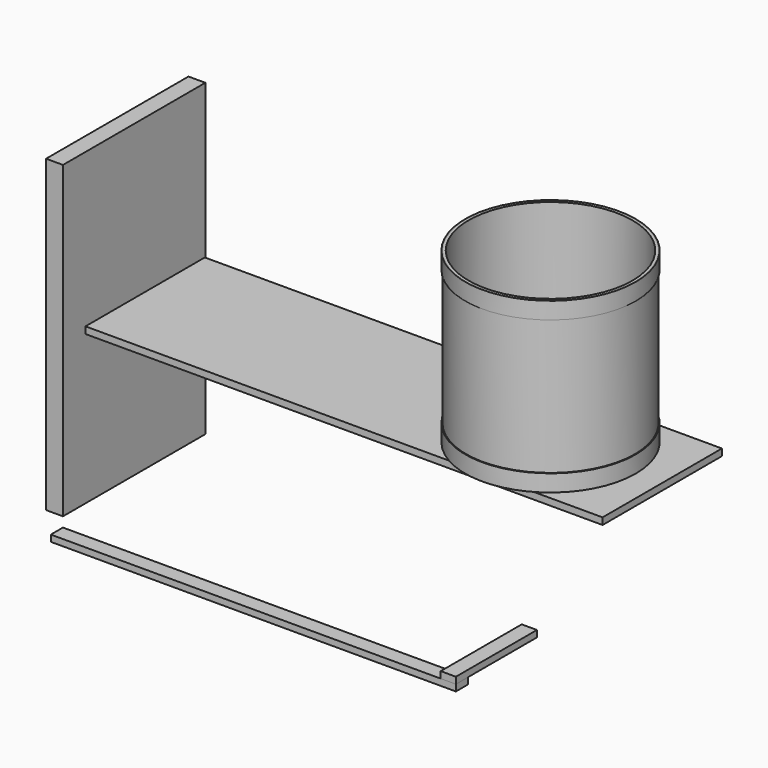
from build123d import *

# Parameters (mm, degrees)
F1_R      = 500
F1_R_2    = 485
F3_DEPTH  = 1000
F4_R      = 504.9999952316
F4_R_2    = 500
F5_DEPTH  = 100
F6_R      = 504.9999952316
F6_R_2    = 500
F7_DEPTH  = 100
F10_DEPTH = 20
F11_W     = 3063.6771917343
F11_H     = 883.8261663914
F12_DEPTH = 40
F13_W     = 1054.4956624508
F13_H     = 1832.8925967216
F13_W_2   = 883.8261663914
F13_H_2   = 40
F14_DEPTH = 100
F15_W     = 2400
F15_H     = 38
F16_DEPTH = 90
F17_W     = 90
F17_H     = 39
F18_DEPTH = 600


with BuildPart() as f3:
    # F1 (on face) → F3 (new body)
    with BuildSketch(Plane.XY):
        Circle(F1_R)
        Circle(F1_R_2, mode=Mode.SUBTRACT)
    extrude(amount=F3_DEPTH)


with BuildPart() as f5:
    # F4 (on face) → F5 (new body)
    with BuildSketch(Plane.XY.offset(1000)):
        Circle(F4_R)
        Circle(F4_R_2, mode=Mode.SUBTRACT)
    extrude(amount=-F5_DEPTH)


with BuildPart() as f7:
    # F6 (on face) → F7 (new body)
    with BuildSketch(Plane.XY):
        Circle(F6_R)
        Circle(F6_R_2, mode=Mode.SUBTRACT)
    extrude(amount=F7_DEPTH)


with BuildPart() as f10:
    # F9 (on face) → F10 (new body)
    with BuildSketch(Plane.XY):
        with BuildLine():
            Line((-365.7646179199, 279.0051400661), (396.8611955643, 279.0051400661))
            ThreePointArc((396.8611955643, 279.0051400661), (0, 485.1213010455), (-396.8611955643, 279.0051400661))
            Line((-396.8611955643, 279.0051400661), (-365.7646179199, 279.0051400661))
        make_face()
    extrude(amount=F10_DEPTH)


with BuildPart() as f12:
    # F11 (on face) → F12 (new body)
    with BuildSketch(Plane.XY):
        with Locations((-873.056948185, 4.0964633226)):
            Rectangle(F11_W, F11_H)
    extrude(amount=-F12_DEPTH)


with BuildPart() as f14:
    # F13 (on face) → F14 (new body)
    with BuildSketch(Plane(origin=(-2404.8955440521, 0, 0), x_dir=(0, -1, 0), z_dir=(-1, 0, 0))):
        with Locations((77.2945433855, -6.8170130253)):
            Rectangle(F13_W, F13_H)
        with Locations((-4.0964633226, -20)):
            Rectangle(F13_W_2, F13_H_2, mode=Mode.SUBTRACT)
    extrude(amount=F14_DEPTH)


with BuildPart() as f16:
    # F15 (on face) → F16 (new body)
    with BuildSketch(Plane.XZ.offset(604.5423746109)):
        with Locations((-1204.8955440521, -1000.6784378119)):
            Rectangle(F15_W, F15_H)
    extrude(amount=F16_DEPTH)


with BuildPart() as f18:
    # F17 (on face) → F18 (new body)
    with BuildSketch(Plane.XZ.offset(694.5423746109)):
        with Locations((-49.8955440521, -962.1784378119)):
            Rectangle(F17_W, F17_H)
    extrude(amount=-F18_DEPTH)


solid = Compound([f3.part, f5.part, f7.part, f10.part, f12.part, f14.part, f16.part, f18.part])
